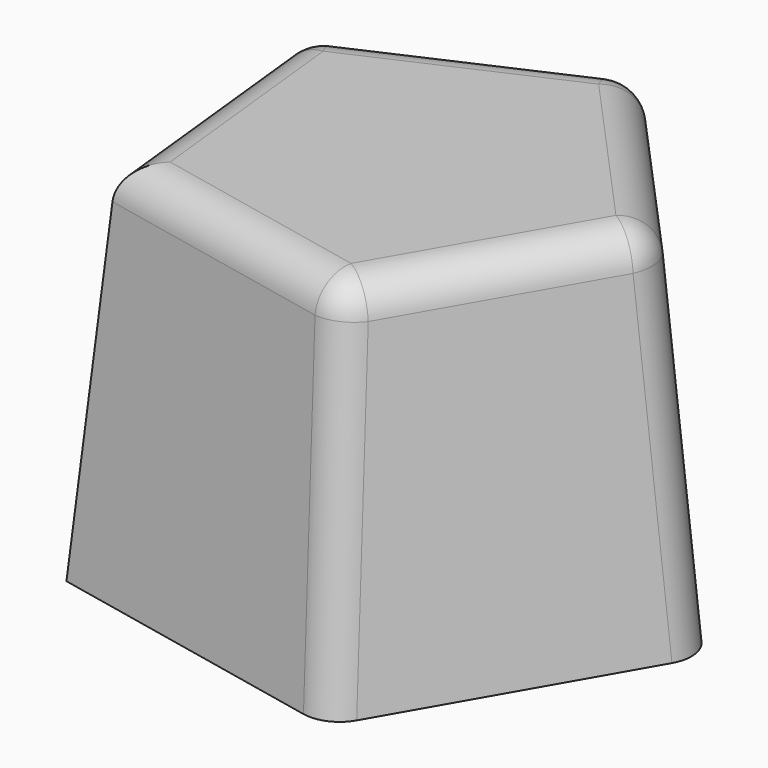
from build123d import *

# Parameters (mm, degrees)
F1_DEPTH = 20
F1_TAPER = 5
F2_R     = 2


with BuildPart() as f1:
    # F0 (on Top) → F1 (new body)
    with BuildSketch(Plane.XY):
        Polygon((6.0316065778, -13.4554637656), (14.66077543, 1.5784317688), (3.0292509394, 14.4309882477), (-12.788595389, 7.3404094595), (-10.9330375582, -9.8943657103), align=None)
    extrude(amount=F1_DEPTH, taper=F1_TAPER)

    # F2
    f2_edges = [f1.edges().sort_by_distance(p)[0] for p in [
        (-4.163932, 9.289008, 20),
        (7.547645, 6.830596, 20),
        (-10.121097, -1.089674, 20),
        (8.828634, -5.067467, 20),
        (-2.09125, -9.962463, 20),
        (2.807089, 13.372634, 10.000005),
        (13.585569, 1.462671, 10.000005),
        (-11.850693, 6.802072, 10),
        (5.589255, -12.468654, 10),
    ]]
    fillet(f2_edges, radius=F2_R)


solid = f1.part
